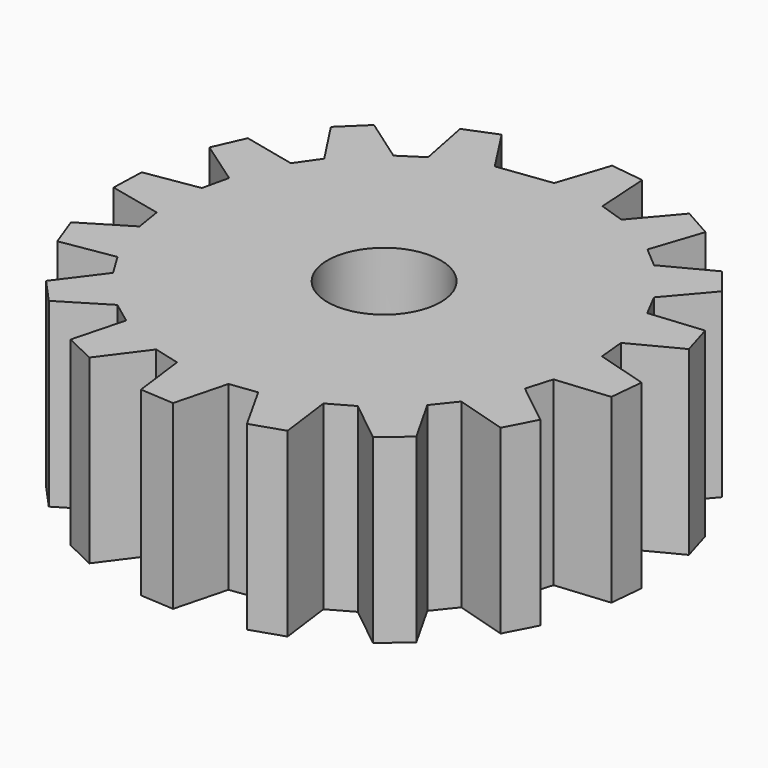
from build123d import *

# Parameters (mm, degrees)
F0_R     = 1.5875
F1_DEPTH = 5.08


with BuildPart() as f1:
    # F0 (on Top) → F1 (new body)
    with BuildSketch(Plane.XY):
        Polygon((0.474449, 7.397563), (0, 5.959938), (-1.509838, 5.765279), (-2.333421, 7.035513), (-3.212976, 6.67943), (-2.920899, 5.19399), (-3.560145, 4.777881), (-4.80024, 5.646232), (-5.481888, 4.986112), (-4.653723, 3.718824), (-5.090102, 3.09325), (-6.565419, 3.43279), (-6.949501, 2.565093), (-5.706309, 1.701199), (-5.876041, 0.957585), (-7.370948, 0.718661), (-7.401365, -0.229734), (-5.924813, -0.563961), (-5.803097, -1.316916), (-7.09909, -2.099381), (-6.771384, -2.98989), (-5.277333, -2.745577), (-4.881946, -3.397816), (-5.789576, -4.609433), (-5.151639, -5.311904), (-3.858467, -4.524781), (-3.247195, -4.980975), (-3.633844, -6.44466), (-2.778914, -6.856363), (-1.875615, -5.641498), (-1.137843, -5.834974), (-0.946935, -7.336755), (0, -7.397563), (0.381362, -5.932493), (1.137843, -5.834974), (1.878359, -7.155365), (2.778914, -6.856363), (2.582618, -5.355262), (3.24722, -4.980975), (4.429126, -5.927004), (5.151639, -5.311904), (4.406389, -3.994157), (4.881946, -3.397816), (6.332488, -3.831173), (6.771384, -2.98989), (5.586079, -2.048117), (5.803097, -1.316916), (7.310242, -1.174251), (7.401365, -0.229734), (5.949287, 0.198386), (5.876041, 0.957585), (7.219521, 1.655398), (6.949526, 2.565093), (5.442886, 2.417015), (5.090102, 3.09325), (6.073521, 4.244236), (5.481888, 4.986112), (4.140951, 4.283465), (3.56017, 4.777881), (4.039782, 6.213793), (3.212976, 6.67943), (2.233711, 5.524919), (1.509838, 5.765279), (1.415568, 7.276225), align=None)
        Circle(F0_R, mode=Mode.SUBTRACT)
    extrude(amount=F1_DEPTH)


solid = f1.part
